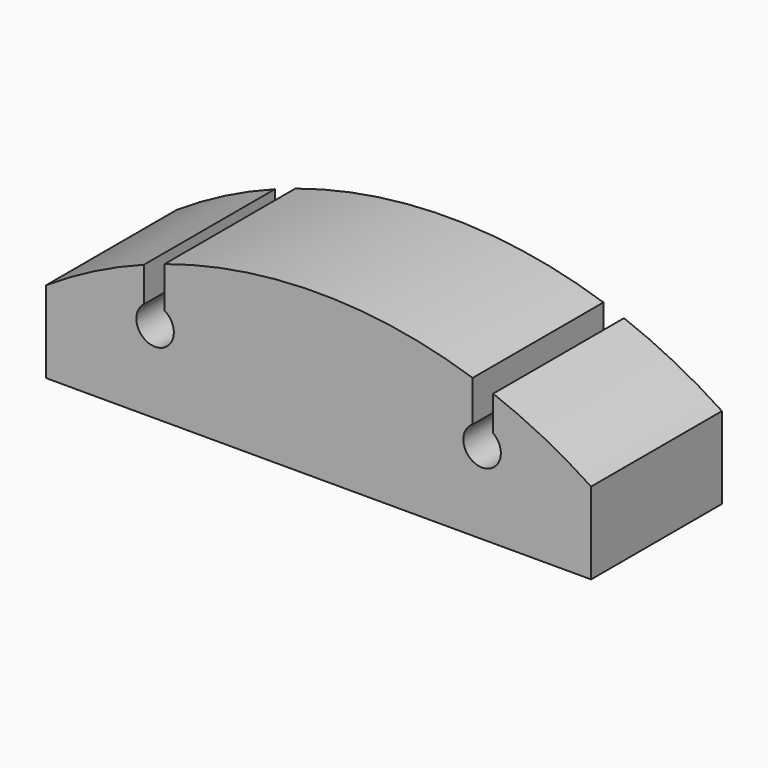
from build123d import *

# Parameters (mm, degrees)
F1_DEPTH = 19.05


with BuildPart() as f1:
    # F0 (on Front) → F1 (new body, symmetric)
    with BuildSketch(Plane.XZ):
        with BuildLine():
            Line((-63.5, -9.525), (63.5, -9.525))
            Line((63.5, -9.525), (63.5, 9.525))
            ThreePointArc((63.5, 9.525), (52.412089, 15.981047), (40.67581, 21.165838))
            Line((40.67581, 21.165838), (40.67581, 13.053685))
            ThreePointArc((40.67581, 13.053685), (37.875132, 5.161991), (35.90061, 13.299797))
            Line((35.90061, 13.299797), (35.90061, 22.846459))
            ThreePointArc((35.90061, 22.846459), (0, 28.575), (-35.90061, 22.846459))
            Line((-35.90061, 22.846459), (-35.90061, 13.299797))
            ThreePointArc((-35.90061, 13.299797), (-37.875132, 5.161991), (-40.67581, 13.053685))
            Line((-40.67581, 13.053685), (-40.67581, 21.165838))
            ThreePointArc((-40.67581, 21.165838), (-52.412089, 15.981047), (-63.5, 9.525))
            Line((-63.5, 9.525), (-63.5, -9.525))
        make_face()
    extrude(amount=F1_DEPTH, both=True)


solid = f1.part
